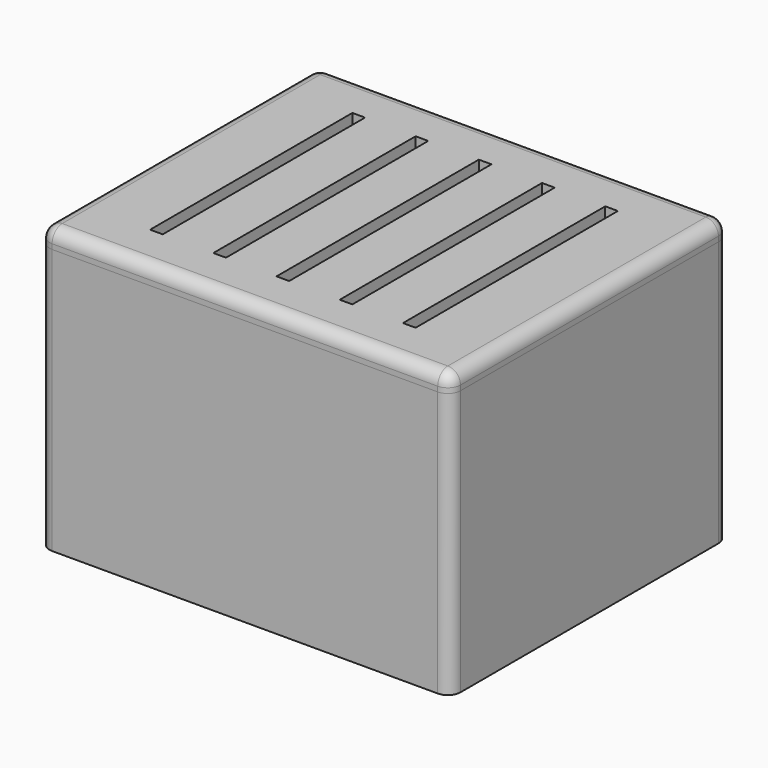
from build123d import *

# Parameters (mm, degrees)
F3_W            = 65
F3_H            = 55
F4_DEPTH        = 42
F5_W            = 62.2
F5_H            = 52.2
F6_DEPTH        = 40.6
F7_W            = 13
F7_H            = 10.1
F8_DEPTH        = 19
F10_D           = 3.3
F10_CBORE_D     = 6
F10_CBORE_DEPTH = 12
F11_R           = 2
F12_R           = 2
F14_R           = 2
F13_W           = 65
F13_H           = 55
F15_DEPTH       = 2.8
F16_R           = 2
F18_DEPTH       = 1.4
F19_W           = 2
F19_H           = 40
F20_DEPTH       = 4.201
F21_R           = 2
F23_DEPTH       = 18.8


with BuildPart() as f4:
    # F3 (on Top) → F4 (new body)
    with BuildSketch(Plane.XY):
        Rectangle(F3_W, F3_H)
    extrude(amount=F4_DEPTH)

    # F5 (on face) → F6 (cut)
    with BuildSketch(Plane.XY.offset(42)):
        Rectangle(F5_W, F5_H)
    extrude(amount=-F6_DEPTH, mode=Mode.SUBTRACT)

    # F7 (on face) → F8 (join)
    with BuildSketch(Plane.XY.offset(1.4)):
        with Locations((24.6, 21.05)):
            Rectangle(F7_W, F7_H)
        with Locations((24.6, -21.05)):
            Rectangle(F7_W, F7_H)
        with Locations((-24.6, -21.05)):
            Rectangle(F7_W, F7_H)
        with Locations((-24.6, 21.05)):
            Rectangle(F7_W, F7_H)
    extrude(amount=F8_DEPTH)

    # F10 (through all)
    with Locations(Plane(origin=(0, 0, 0), x_dir=(1, 0, 0), z_dir=(0, 0, -1))):
        with Locations((22, -22), (-22, -22), (-22, 22), (22, 22)):
            CounterBoreHole(F10_D / 2, F10_CBORE_D / 2, F10_CBORE_DEPTH)

    # F11
    f11_edges = [f4.edges().sort_by_distance(p)[0] for p in [
        (-18.1, -21.05, 1.4),
        (-24.6, -16, 1.4),
        (-31.1, 0, 1.4),
        (-24.6, 16, 1.4),
        (-18.1, 21.05, 1.4),
        (0, 26.1, 1.4),
        (18.1, 21.05, 1.4),
        (24.6, 16, 1.4),
        (31.1, 0, 1.4),
        (24.6, -16, 1.4),
        (18.1, -21.05, 1.4),
        (0, -26.1, 1.4),
    ]]
    fillet(f11_edges, radius=F11_R)

    # F12
    f12_edges = [f4.edges().sort_by_distance(p)[0] for p in [
        (31.1, 26.1, 31.2),
        (-31.1, 26.1, 31.2),
        (-31.1, -26.1, 31.2),
        (31.1, -26.1, 31.2),
    ]]
    fillet(f12_edges, radius=F12_R)

    # F14
    f14_edges = [f4.edges().sort_by_distance(p)[0] for p in [
        (-32.5, -27.5, 21),
        (32.5, -27.5, 21),
        (32.5, 27.5, 21),
        (-32.5, 27.5, 21),
    ]]
    fillet(f14_edges, radius=F14_R)

    # F22 (on face) → F23 (join)
    with BuildSketch(Plane.XY.offset(20.4)):
        with BuildLine():
            Line((26.6, -26.1), (31.1, -26.1))
            Line((31.1, -26.1), (31.1, -21.6))
            ThreePointArc((31.1, -21.6), (27.9180194847, -22.9180194847), (26.6, -26.1))
        make_face()
        with BuildLine():
            Line((-31.1, 26.1), (-31.1, 21.6))
            ThreePointArc((-31.1, 21.6), (-27.9180194847, 22.9180194847), (-26.6, 26.1))
            Line((-26.6, 26.1), (-31.1, 26.1))
        make_face()
        with BuildLine():
            ThreePointArc((-26.6, -26.1), (-27.9180194847, -22.9180194847), (-31.1, -21.6))
            Line((-31.1, -21.6), (-31.1, -26.1))
            Line((-31.1, -26.1), (-26.6, -26.1))
        make_face()
        with BuildLine():
            ThreePointArc((26.6, 26.1), (27.9180194847, 22.9180194847), (31.1, 21.6))
            Line((31.1, 21.6), (31.1, 26.1))
            Line((31.1, 26.1), (26.6, 26.1))
        make_face()
    extrude(amount=F23_DEPTH)


with BuildPart() as f15:
    # F13 (on face) → F15 (new body)
    with BuildSketch(Plane.XY.offset(42)):
        Rectangle(F13_W, F13_H)
    extrude(amount=F15_DEPTH)

    # F16
    f16_edges = [f15.edges().sort_by_distance(p)[0] for p in [
        (-32.5, -27.5, 43.4),
        (32.5, -27.5, 43.4),
        (-32.5, 27.5, 43.4),
        (32.5, 27.5, 43.4),
    ]]
    fillet(f16_edges, radius=F16_R)

    # F17 (on face) → F18 (join)
    with BuildSketch(Plane(origin=(0, 0, 42), x_dir=(1, 0, 0), z_dir=(0, 0, -1))):
        with BuildLine():
            ThreePointArc((25.75, -25.75), (29.2855339059, -24.2855339059), (30.75, -20.75))
            Line((30.75, -20.75), (30.75, 20.75))
            ThreePointArc((30.75, 20.75), (29.2855339059, 24.2855339059), (25.75, 25.75))
            Line((25.75, 25.75), (-25.75, 25.75))
            ThreePointArc((-25.75, 25.75), (-29.2855339059, 24.2855339059), (-30.75, 20.75))
            Line((-30.75, 20.75), (-30.75, -20.75))
            ThreePointArc((-30.75, -20.75), (-29.2855339059, -24.2855339059), (-25.75, -25.75))
            Line((-25.75, -25.75), (25.75, -25.75))
        make_face()
    extrude(amount=F18_DEPTH)

    # F19 (on face) → F20 (cut, through all)
    with BuildSketch(Plane(origin=(0, 0, 40.6), x_dir=(1, 0, 0), z_dir=(0, 0, -1))):
        Rectangle(F19_W, F19_H)
        with Locations((-10, 0)):
            Rectangle(F19_W, F19_H)
        with Locations((-20, 0)):
            Rectangle(F19_W, F19_H)
        with Locations((10, 0)):
            Rectangle(F19_W, F19_H)
        with Locations((20, 0)):
            Rectangle(F19_W, F19_H)
    extrude(amount=-F20_DEPTH, mode=Mode.SUBTRACT)

    # F21
    f21_edges = [f15.edges().sort_by_distance(p)[0] for p in [
        (32.5, 0, 44.8),
        (0, 27.5, 44.8),
        (-32.5, 0, 44.8),
        (0, -27.5, 44.8),
    ]]
    fillet(f21_edges, radius=F21_R)


solid = Compound([f4.part, f15.part])
